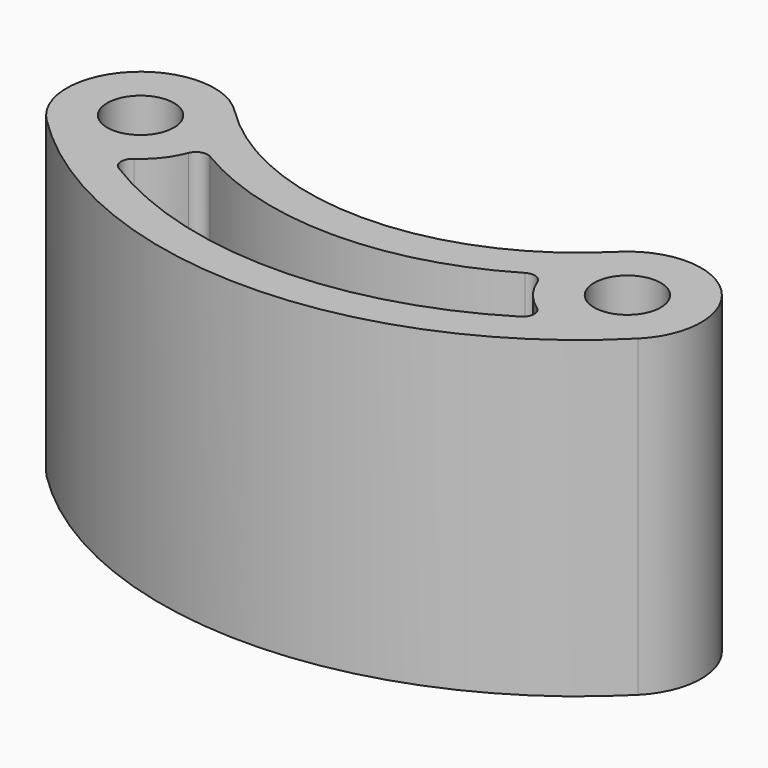
from build123d import *

# Parameters (mm, degrees)
F0_R     = 2.15265
F1_DEPTH = 20.248474
F2_R     = 0.762


with BuildPart() as f1:
    # F0 (on Top) → F1 (new body)
    with BuildSketch(Plane.XY):
        with BuildLine():
            ThreePointArc((12.343469, -12.343469), (0, -17.456301), (-12.343469, -12.343469))
            ThreePointArc((-12.343469, -12.343469), (-19.078661, -12.343469), (-19.078661, -19.078661))
            ThreePointArc((-19.078661, -19.078661), (0, -26.981301), (19.078661, -19.078661))
            ThreePointArc((19.078661, -19.078661), (19.078661, -12.343469), (12.343469, -12.343469))
        make_face()
        with BuildLine():
            ThreePointArc((14.067411, -20.180943), (0, -24.600051), (-14.067411, -20.180943))
            ThreePointArc((-14.067411, -20.180943), (-12.045032, -18.751066), (-11.014192, -16.49897))
            ThreePointArc((-11.014192, -16.49897), (0, -19.837551), (11.014192, -16.49897))
            ThreePointArc((11.014192, -16.49897), (12.045032, -18.751066), (14.067411, -20.180943))
        make_face(mode=Mode.SUBTRACT)
        with Locations((-15.711065, -15.711065)):
            Circle(F0_R, mode=Mode.SUBTRACT)
        with Locations((15.711065, -15.711065)):
            Circle(F0_R, mode=Mode.SUBTRACT)
    extrude(amount=F1_DEPTH)

    # F2
    f2_edges = [f1.edges().sort_by_distance(p)[0] for p in [
        (-11.014192, -16.49897, 10.124237),
        (-14.067411, -20.180943, 10.124237),
        (11.014192, -16.49897, 10.124237),
        (14.067411, -20.180943, 10.124237),
    ]]
    fillet(f2_edges, radius=F2_R)


solid = f1.part
